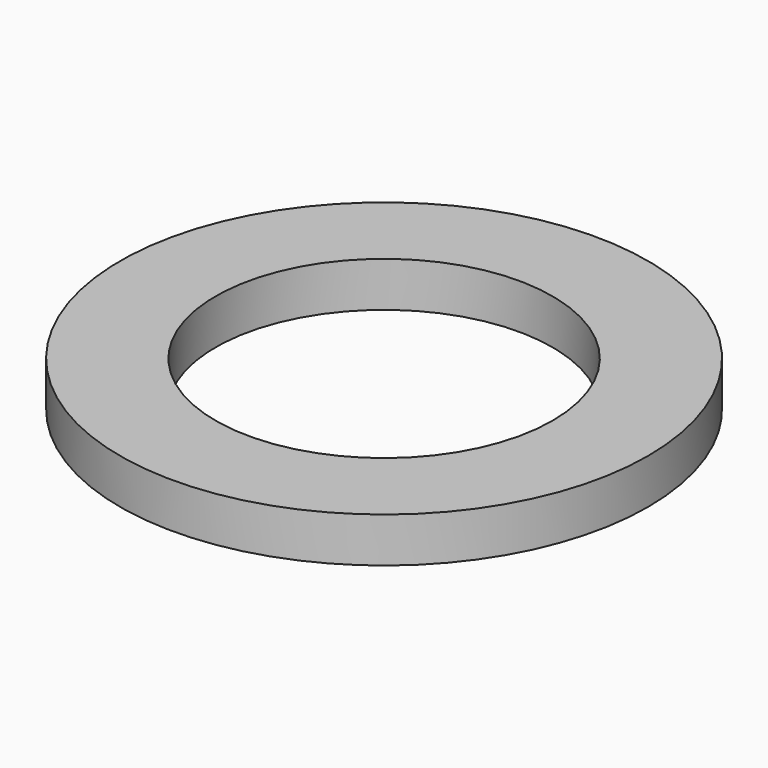
from build123d import *

# Parameters (mm, degrees)
SKETCH_R   = 23.5
SKETCH_R_2 = 15
PAD_DEPTH  = 4


with BuildPart() as part:
    # Sketch → Pad (new body)
    with BuildSketch(Plane.XY):
        Circle(SKETCH_R)
        Circle(SKETCH_R_2, mode=Mode.SUBTRACT)
    extrude(amount=PAD_DEPTH)


solid = part.part
